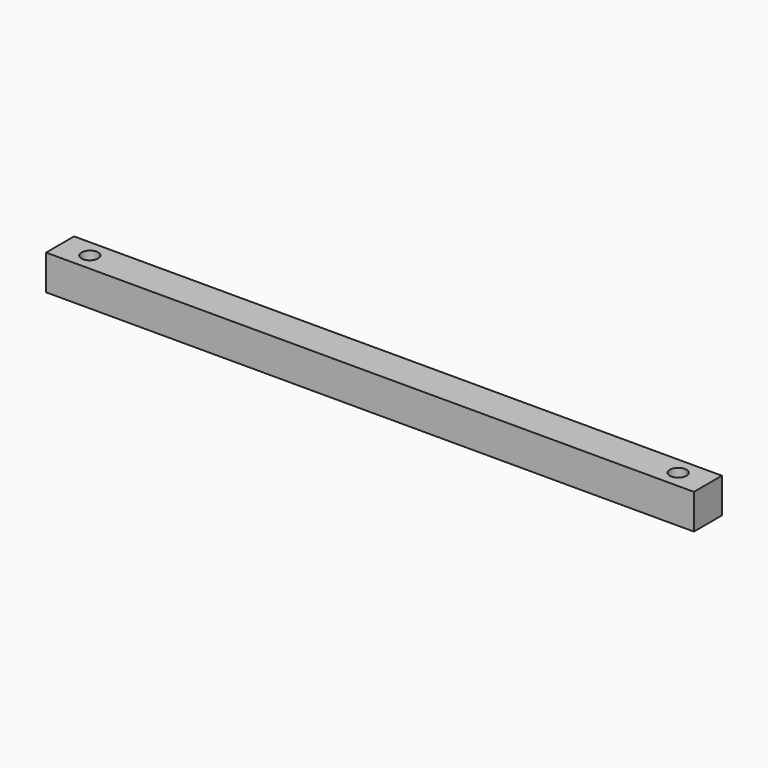
from build123d import *

# Parameters (mm, degrees)
SKETCH_W        = 370
SKETCH_H        = 20
PAD_DEPTH       = 20
SKETCH001_R     = 4.75
POCKET_DEPTH    = 5
SKETCH002_R     = 2.75
POCKET001_DEPTH = 15


with BuildPart() as part:
    # Sketch → Pad (new body)
    with BuildSketch(Plane.XY):
        Rectangle(SKETCH_W, SKETCH_H)
    extrude(amount=-PAD_DEPTH)

    # Sketch001 (on Face5 of Pad) → Pocket (cut)
    with BuildSketch(Plane.XY):
        with Locations((168, 0)):
            Circle(SKETCH001_R)
        with Locations((-168, 0)):
            Circle(SKETCH001_R)
    extrude(amount=-POCKET_DEPTH, mode=Mode.SUBTRACT)

    # Sketch002 (on Face4 of Pocket) → Pocket001 (cut)
    with BuildSketch(Plane.XY):
        with Locations((-168, 0)):
            Circle(SKETCH002_R)
        with Locations((168, 0)):
            Circle(SKETCH002_R)
    extrude(amount=-POCKET001_DEPTH, mode=Mode.SUBTRACT)


solid = part.part
